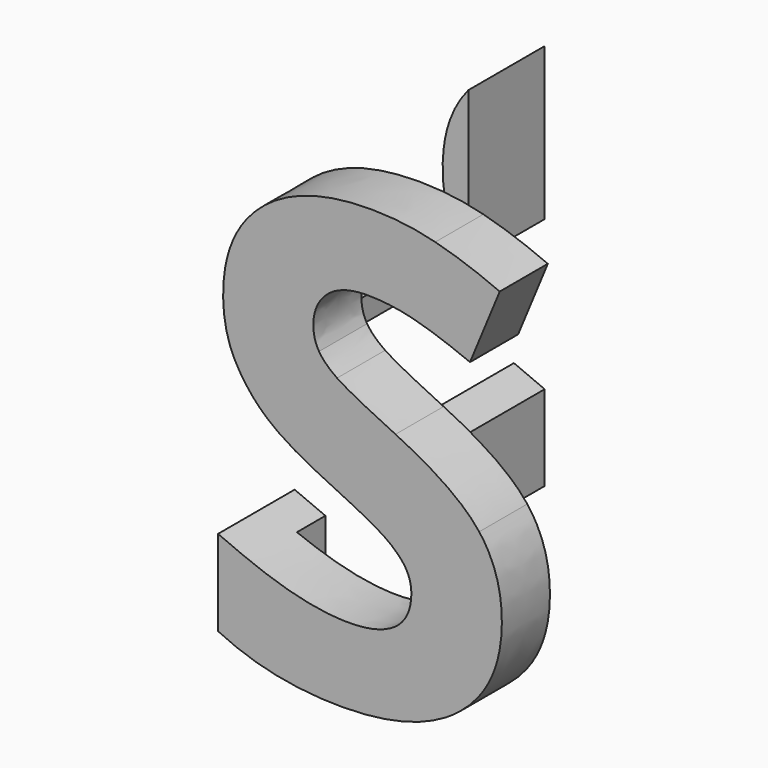
from build123d import *

# Parameters (mm, degrees)
F0_W     = 25.4
F0_H     = 25.4
F1_DEPTH = 25.4
F2_W     = 25.4
F2_H     = 25.4
F5_DEPTH = 25.401
F3_W     = 19.05
F3_H     = 19.05
F6_DEPTH = 24.9531879378
F4_W     = 25.4
F4_H     = 25.4
F7_DEPTH = 20.721602151


with BuildPart() as f1:
    # F0 (on Front) → F1 (new body)
    with BuildSketch(Plane.XZ):
        Rectangle(F0_W, F0_H)
    extrude(amount=F1_DEPTH)

    # F2 (on face) → F5 (cut, through all)
    with BuildSketch(Plane.XZ.offset(25.4)):
        Rectangle(F2_W, F2_H)
        with BuildLine():
            add(Edge.make_bspline(
                [(6.1649158069, -1.4519386094), (7.394275592, -3.0436360155), (7.394275592, -5.3574205374)],
                knots=[0, 0, 0, 1, 1, 1], degree=2))
            add(Edge.make_bspline(
                [(7.394275592, -5.3574205374), (7.394275592, -8.5615203565), (5.0882554476, -10.4068540971)],
                knots=[0, 0, 0, 1, 1, 1], degree=2))
            add(Edge.make_bspline(
                [(5.0882554476, -10.4068540971), (2.7822353033, -12.2521878378), (-1.3225323162, -12.2521878378)],
                knots=[0, 0, 0, 1, 1, 1], degree=2))
            add(Edge.make_bspline(
                [(-1.3225323162, -12.2521878378), (-5.1115485804, -12.2521878378), (-8.020602051, -10.8235423612)],
                knots=[0, 0, 0, 1, 1, 1], degree=2))
            Line((-8.020602051, -10.8235423612), (-8.020602051, -6.1649158069))
            add(Edge.make_bspline(
                [(-8.020602051, -6.1649158069), (-5.6291737531, -7.2363999143), (-3.9701850746, -7.6712050594)],
                knots=[0, 0, 0, 1, 1, 1], degree=2))
            add(Edge.make_bspline(
                [(-3.9701850746, -7.6712050594), (-2.3111963961, -8.1060102045), (-0.9343134367, -8.1060102045)],
                knots=[0, 0, 0, 1, 1, 1], degree=2))
            add(Edge.make_bspline(
                [(-0.9343134367, -8.1060102045), (0.7117346125, -8.1060102045), (1.5942855319, -7.4770956197)],
                knots=[0, 0, 0, 1, 1, 1], degree=2))
            add(Edge.make_bspline(
                [(1.5942855319, -7.4770956197), (2.4768364514, -6.8481810348), (2.4768364514, -5.6007043686)],
                knots=[0, 0, 0, 1, 1, 1], degree=2))
            add(Edge.make_bspline(
                [(2.4768364514, -5.6007043686), (2.4768364514, -4.9070866372), (2.0886175718, -4.3635802059)],
                knots=[0, 0, 0, 1, 1, 1], degree=2))
            add(Edge.make_bspline(
                [(2.0886175718, -4.3635802059), (1.7003986923, -3.8200737745), (0.947254066, -3.3205654829)],
                knots=[0, 0, 0, 1, 1, 1], degree=2))
            add(Edge.make_bspline(
                [(0.947254066, -3.3205654829), (0.1941094398, -2.8210571912), (-2.1196750822, -1.7185155734)],
                knots=[0, 0, 0, 1, 1, 1], degree=2))
            add(Edge.make_bspline(
                [(-2.1196750822, -1.7185155734), (-4.2833483041, -0.6987939831), (-5.3677730409, 0.2381075794)],
                knots=[0, 0, 0, 1, 1, 1], degree=2))
            add(Edge.make_bspline(
                [(-5.3677730409, 0.2381075794), (-6.4521977777, 1.175009142), (-7.0992292436, 2.4224858082)],
                knots=[0, 0, 0, 1, 1, 1], degree=2))
            add(Edge.make_bspline(
                [(-7.0992292436, 2.4224858082), (-7.7462607095, 3.6699624744), (-7.7462607095, 5.3315392788)],
                knots=[0, 0, 0, 1, 1, 1], degree=2))
            add(Edge.make_bspline(
                [(-7.7462607095, 5.3315392788), (-7.7462607095, 8.4735240771), (-5.6188212497, 10.2670953005)],
                knots=[0, 0, 0, 1, 1, 1], degree=2))
            add(Edge.make_bspline(
                [(-5.6188212497, 10.2670953005), (-3.4913817899, 12.0606665239), (0.2614007122, 12.0606665239)],
                knots=[0, 0, 0, 1, 1, 1], degree=2))
            add(Edge.make_bspline(
                [(0.2614007122, 12.0606665239), (2.104146327, 12.0606665239), (3.7786637607, 11.6258613788)],
                knots=[0, 0, 0, 1, 1, 1], degree=2))
            add(Edge.make_bspline(
                [(3.7786637607, 11.6258613788), (5.4531811944, 11.1910562338), (7.280398054, 10.3990897195)],
                knots=[0, 0, 0, 1, 1, 1], degree=2))
            Line((7.280398054, 10.3990897195), (5.6654075152, 6.4961959174))
            add(Edge.make_bspline(
                [(5.6654075152, 6.4961959174), (3.7708993831, 7.2726336764), (2.5337752204, 7.5806206542)],
                knots=[0, 0, 0, 1, 1, 1], degree=2))
            add(Edge.make_bspline(
                [(2.5337752204, 7.5806206542), (1.2966510576, 7.8886076319), (0.1009369087, 7.8886076319)],
                knots=[0, 0, 0, 1, 1, 1], degree=2))
            add(Edge.make_bspline(
                [(0.1009369087, 7.8886076319), (-1.3225323162, 7.8886076319), (-2.0834413201, 7.2260474109)],
                knots=[0, 0, 0, 1, 1, 1], degree=2))
            add(Edge.make_bspline(
                [(-2.0834413201, 7.2260474109), (-2.844350324, 6.5634871898), (-2.844350324, 5.4971793341)],
                knots=[0, 0, 0, 1, 1, 1], degree=2))
            add(Edge.make_bspline(
                [(-2.844350324, 5.4971793341), (-2.844350324, 4.834619113), (-2.5363633462, 4.3402870731)],
                knots=[0, 0, 0, 1, 1, 1], degree=2))
            add(Edge.make_bspline(
                [(-2.5363633462, 4.3402870731), (-2.2283763685, 3.8459550332), (-1.5580517698, 3.3852686295)],
                knots=[0, 0, 0, 1, 1, 1], degree=2))
            add(Edge.make_bspline(
                [(-1.5580517698, 3.3852686295), (-0.8877271712, 2.9245822258), (1.6175786647, 1.7288680768)],
                knots=[0, 0, 0, 1, 1, 1], degree=2))
            add(Edge.make_bspline(
                [(1.6175786647, 1.7288680768), (4.9355560217, 0.1397587966), (6.1649158069, -1.4519386094)],
                knots=[0, 0, 0, 1, 1, 1], degree=2))
        make_face(mode=Mode.SUBTRACT)
    extrude(amount=-F5_DEPTH, mode=Mode.SUBTRACT)

    # F3 (on face) → F6 (cut, through all)
    with BuildSketch(Plane.XY.offset(12.7)):
        with Locations((3.175, -9.525)):
            Rectangle(F3_W, F3_H)
    extrude(amount=-F6_DEPTH, mode=Mode.SUBTRACT)

    # F4 (on face) → F7 (cut, through all)
    with BuildSketch(Plane.YZ.offset(12.7)):
        with Locations((-12.7, 0)):
            Rectangle(F4_W, F4_H)
        Polygon((-2.2266582172, 12.1527249683), (-2.2266582172, -12.3619771863), (-7.4096746937, -12.3619771863), (-7.4096746937, -1.7813265737), (-17.1157583439, -1.7813265737), (-17.1157583439, -12.3619771863), (-22.3148711449, -12.3619771863), (-22.3148711449, 12.1527249683), (-17.1157583439, 12.1527249683), (-17.1157583439, 2.5432192649), (-7.4096746937, 2.5432192649), (-7.4096746937, 12.1527249683), align=None, mode=Mode.SUBTRACT)
    extrude(amount=-F7_DEPTH, mode=Mode.SUBTRACT)


solid = f1.part
